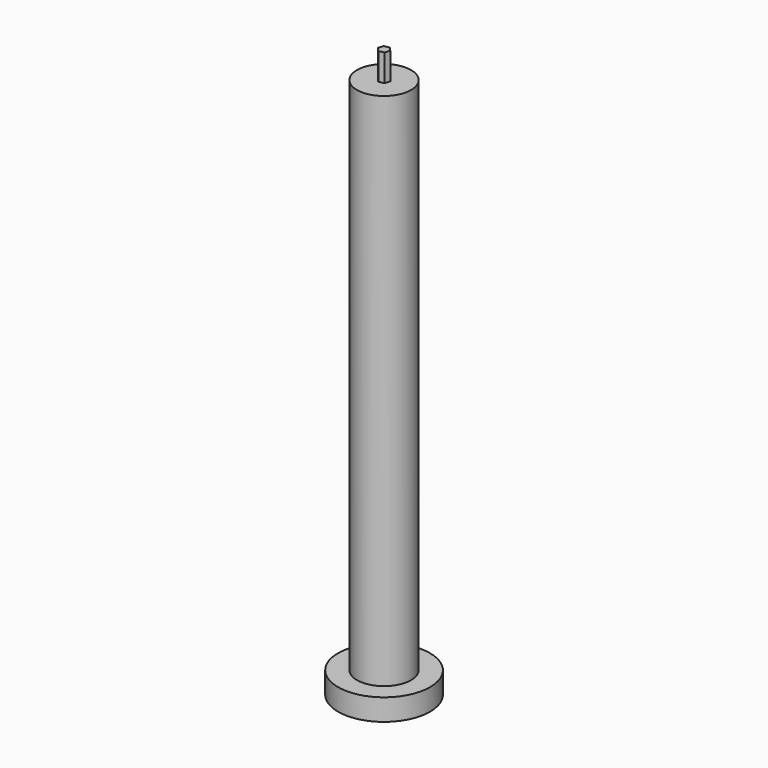
from build123d import *

# Parameters (mm, degrees)
F0_R     = 8.5
F1_DEPTH = 4
F2_R     = 5
F3_DEPTH = 100
F5_DEPTH = 5


with BuildPart() as f1:
    # F0 (on Top) → F1 (new body)
    with BuildSketch(Plane.XY):
        Circle(F0_R)
    extrude(amount=F1_DEPTH)

    # F2 (on Top) → F3 (join)
    with BuildSketch(Plane.XY):
        Circle(F2_R)
    extrude(amount=F3_DEPTH)

    # F4 (on face) → F5 (join)
    with BuildSketch(Plane.XY.offset(100)):
        Polygon((0.674898, -0.737911), (0.976499, 0.215523), (0.301601, 0.953434), (-0.674898, 0.737911), (-0.976499, -0.215523), (-0.301601, -0.953434), align=None)
    extrude(amount=F5_DEPTH)


solid = f1.part
